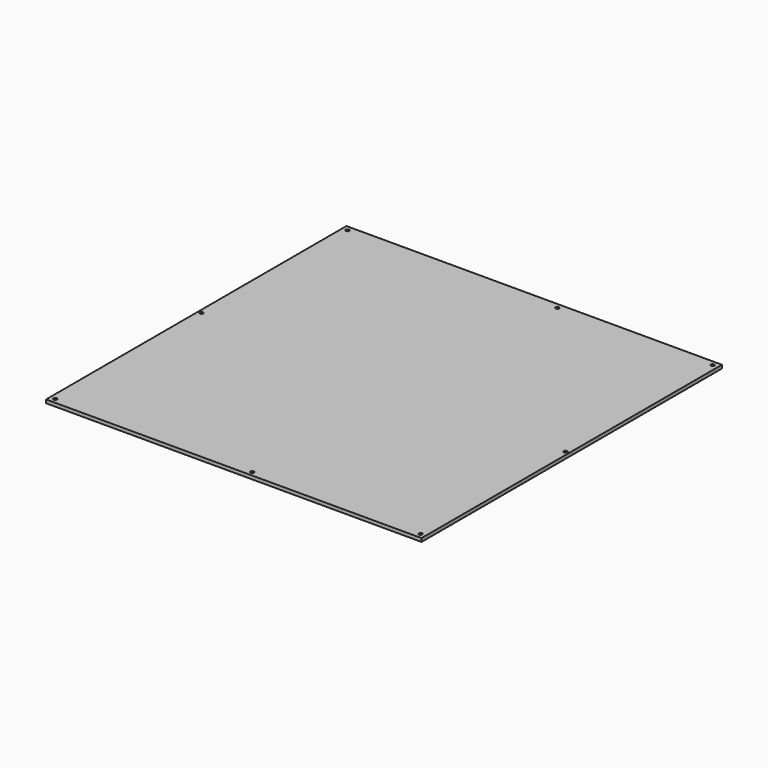
from build123d import *

# Parameters (mm, degrees)
F0_W     = 330
F0_H     = 330
F0_R     = 1.5
F1_DEPTH = 3


with BuildPart() as f1:
    # F0 (on Top) → F1 (new body)
    with BuildSketch(Plane.XY):
        Rectangle(F0_W, F0_H)
        with Locations((-160.5, -160.5)):
            Circle(F0_R, mode=Mode.SUBTRACT)
        with Locations((13, -161)):
            Circle(F0_R, mode=Mode.SUBTRACT)
        with Locations((160.5, -160.5)):
            Circle(F0_R, mode=Mode.SUBTRACT)
        with Locations((162, -3)):
            Circle(F0_R, mode=Mode.SUBTRACT)
        with Locations((-162, 2)):
            Circle(F0_R, mode=Mode.SUBTRACT)
        with Locations((-160.5, 160.5)):
            Circle(F0_R, mode=Mode.SUBTRACT)
        with Locations((24, 160.5)):
            Circle(F0_R, mode=Mode.SUBTRACT)
        with Locations((160.5, 160.5)):
            Circle(F0_R, mode=Mode.SUBTRACT)
    extrude(amount=F1_DEPTH)


solid = f1.part
